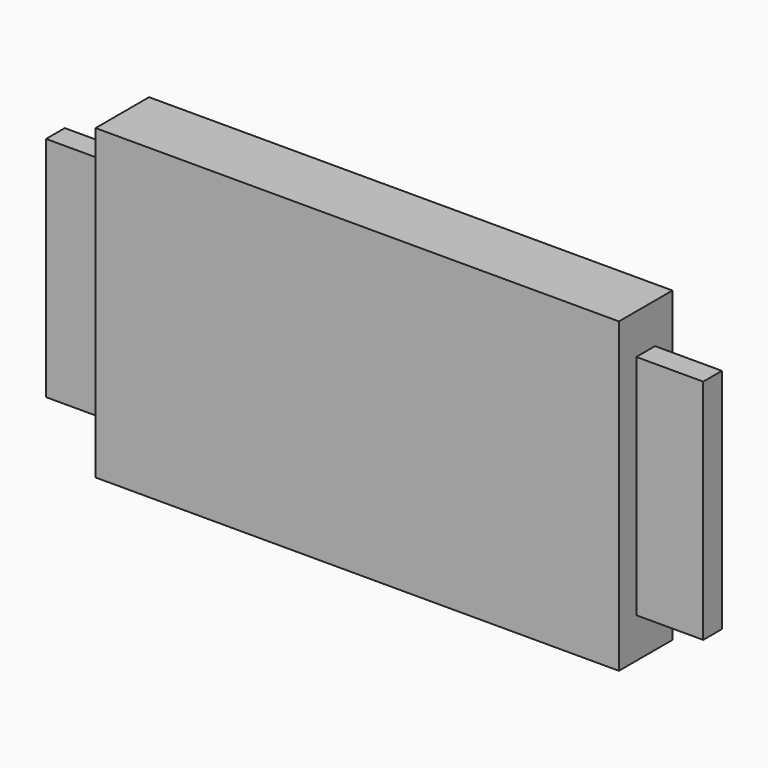
from build123d import *

# Parameters (mm, degrees)
F1_DEPTH = 20
F2_W     = 20
F2_H     = 68
F3_DEPTH = 6.5
F4_W     = 20
F4_H     = 68
F5_DEPTH = 6.5


with BuildPart() as f1:
    # F0 (on Front) → F1 (new body)
    with BuildSketch(Plane.XZ):
        Polygon((-56.8088, 55.399762), (-56.8088, -12.600238), (-36.8088, -12.600238), (-36.8088, -24.600238), (119.704261, -24.600238), (119.704261, -12.600238), (139.704261, -12.600238), (139.704261, 55.399762), (119.704261, 55.399762), (119.704261, 67.399762), (-36.8088, 67.399762), (-36.8088, 55.399762), align=None)
    extrude(amount=F1_DEPTH)

    # F2 (on face) → F3 (cut)
    with BuildSketch(Plane.XZ.offset(20)):
        with Locations((129.704261, 21.399762)):
            Rectangle(F2_W, F2_H)
        with Locations((-46.8088, 21.399762)):
            Rectangle(F2_W, F2_H)
    extrude(amount=-F3_DEPTH, mode=Mode.SUBTRACT)

    # F4 (on face) → F5 (cut)
    with BuildSketch(Plane(origin=(0, 0, 0), x_dir=(-1, 0, 0), z_dir=(0, 1, 0))):
        with Locations((-129.704261, 21.399762)):
            Rectangle(F4_W, F4_H)
        with Locations((46.8088, 21.399762)):
            Rectangle(F4_W, F4_H)
    extrude(amount=-F5_DEPTH, mode=Mode.SUBTRACT)


solid = f1.part
